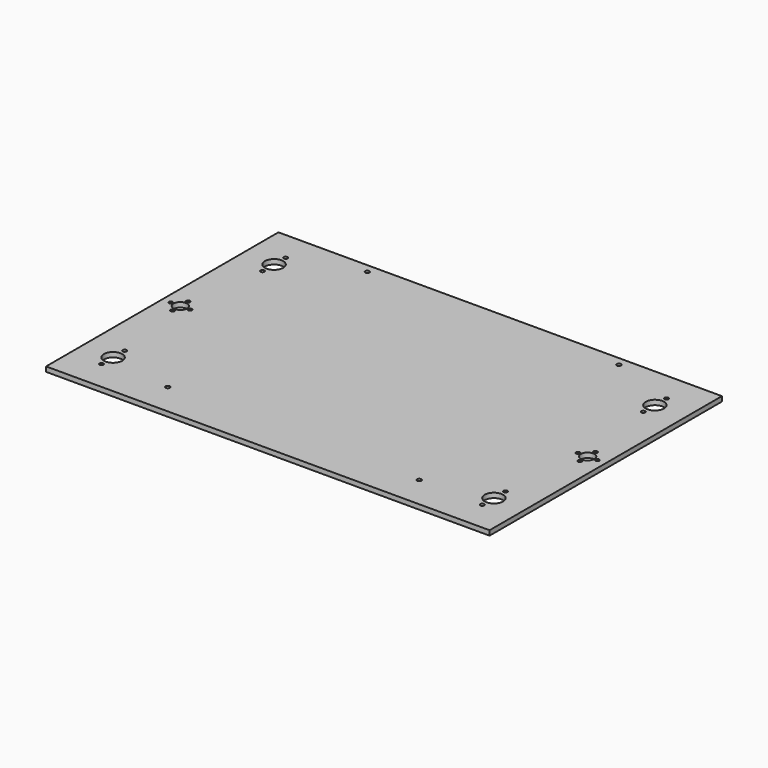
from build123d import *

# Parameters (mm, degrees)
CYLINDER012029001078_R     = 1.75
CYLINDER012029001078_DEPTH = 4
CYLINDER012029001079_R     = 1.75
CYLINDER012029001079_DEPTH = 4
CYLINDER012029001080_R     = 1.75
CYLINDER012029001080_DEPTH = 4
CYLINDER012029001077_R     = 1.75
CYLINDER012029001077_DEPTH = 4
CYLINDER021_R              = 1.6
CYLINDER021_DEPTH          = 10
CYLINDER020_R              = 1.6
CYLINDER020_DEPTH          = 10
CYLINDER019_R              = 1.6
CYLINDER019_DEPTH          = 10
CYLINDER018_R              = 1.6
CYLINDER018_DEPTH          = 10
CYLINDER017_R              = 1.6
CYLINDER017_DEPTH          = 10
CYLINDER016_R              = 1.6
CYLINDER016_DEPTH          = 10
CYLINDER015_R              = 1.6
CYLINDER015_DEPTH          = 10
CYLINDER014_R              = 1.6
CYLINDER014_DEPTH          = 10
CYLINDER013_R              = 5.6
CYLINDER013_DEPTH          = 10
CYLINDER012029001069_R     = 1.6
CYLINDER012029001069_DEPTH = 10
CYLINDER012029001070_R     = 1.6
CYLINDER012029001070_DEPTH = 10
CYLINDER012029001071_R     = 1.6
CYLINDER012029001071_DEPTH = 10
CYLINDER012029001072_R     = 1.6
CYLINDER012029001072_DEPTH = 10
CYLINDER012029001073_R     = 1.6
CYLINDER012029001073_DEPTH = 10
CYLINDER012029001074_R     = 5.6
CYLINDER012029001074_DEPTH = 10
CYLINDER012029001068_R     = 1.6
CYLINDER012029001068_DEPTH = 10
CYLINDER012029001067_R     = 1.6
CYLINDER012029001067_DEPTH = 10
CYLINDER012029001066_R     = 1.6
CYLINDER012029001066_DEPTH = 10
CYLINDER012029001062_R     = 7.6
CYLINDER012029001062_DEPTH = 10
CYLINDER012029001065_R     = 7.6
CYLINDER012029001065_DEPTH = 10
CYLINDER012029001063_R     = 7.6
CYLINDER012029001063_DEPTH = 10
CYLINDER012029001064_R     = 7.6
CYLINDER012029001064_DEPTH = 10
BOX015001052_W             = 368
BOX015001052_H             = 241
BOX015001052_DEPTH         = 4


with BuildPart() as cylinder012029001081:
    # Cylinder012029001078 → Cylinder012029001078 (new body)
    with BuildSketch(Plane(origin=(75.63, 233.64, 0), x_dir=(1, 0, 0), z_dir=(0, 0, 1))):
        Circle(CYLINDER012029001078_R)
    extrude(amount=CYLINDER012029001078_DEPTH)


with BuildPart() as cylinder012029001082:
    # Cylinder012029001079 → Cylinder012029001079 (new body)
    with BuildSketch(Plane(origin=(284.37, 233.64, 0), x_dir=(1, 0, 0), z_dir=(0, 0, 1))):
        Circle(CYLINDER012029001079_R)
    extrude(amount=CYLINDER012029001079_DEPTH)


with BuildPart() as cylinder012029001083:
    # Cylinder012029001080 → Cylinder012029001080 (new body)
    with BuildSketch(Plane(origin=(284.37, 26.63, 0), x_dir=(1, 0, 0), z_dir=(0, 0, 1))):
        Circle(CYLINDER012029001080_R)
    extrude(amount=CYLINDER012029001080_DEPTH)


with BuildPart() as fusion001019007006:
    # Cylinder012029001077 → Cylinder012029001077 (new body)
    with BuildSketch(Plane(origin=(75.63, 26.63, 0), x_dir=(1, 0, 0), z_dir=(0, 0, 1))):
        Circle(CYLINDER012029001077_R)
    extrude(amount=CYLINDER012029001077_DEPTH)

    # Fusion001019007006: union Cylinder012029001081, Cylinder012029001082, Cylinder012029001083
    add(cylinder012029001081.part)
    add(cylinder012029001082.part)
    add(cylinder012029001083.part)


with BuildPart() as cylinder022:
    # Cylinder021 → Cylinder021 (new body)
    with BuildSketch(Plane(origin=(338, 25, -1), x_dir=(1, 0, 0), z_dir=(0, 0, 1))):
        Circle(CYLINDER021_R)
    extrude(amount=CYLINDER021_DEPTH)


with BuildPart() as cylinder021:
    # Cylinder020 → Cylinder020 (new body)
    with BuildSketch(Plane(origin=(338, 49, -1), x_dir=(1, 0, 0), z_dir=(0, 0, 1))):
        Circle(CYLINDER020_R)
    extrude(amount=CYLINDER020_DEPTH)


with BuildPart() as cylinder020:
    # Cylinder019 → Cylinder019 (new body)
    with BuildSketch(Plane(origin=(338, 192, -1), x_dir=(1, 0, 0), z_dir=(0, 0, 1))):
        Circle(CYLINDER019_R)
    extrude(amount=CYLINDER019_DEPTH)


with BuildPart() as cylinder019:
    # Cylinder018 → Cylinder018 (new body)
    with BuildSketch(Plane(origin=(338, 216, -1), x_dir=(1, 0, 0), z_dir=(0, 0, 1))):
        Circle(CYLINDER018_R)
    extrude(amount=CYLINDER018_DEPTH)


with BuildPart() as cylinder018:
    # Cylinder017 → Cylinder017 (new body)
    with BuildSketch(Plane(origin=(349, 128.5, -1), x_dir=(1, 0, 0), z_dir=(0, 0, 1))):
        Circle(CYLINDER017_R)
    extrude(amount=CYLINDER017_DEPTH)


with BuildPart() as cylinder012029001078:
    # Cylinder016 → Cylinder016 (new body)
    with BuildSketch(Plane(origin=(349, 112.5, -1), x_dir=(1, 0, 0), z_dir=(0, 0, 1))):
        Circle(CYLINDER016_R)
    extrude(amount=CYLINDER016_DEPTH)


with BuildPart() as cylinder012029001079:
    # Cylinder015 → Cylinder015 (new body)
    with BuildSketch(Plane(origin=(357, 120.5, -1), x_dir=(1, 0, 0), z_dir=(0, 0, 1))):
        Circle(CYLINDER015_R)
    extrude(amount=CYLINDER015_DEPTH)


with BuildPart() as cylinder012029001077:
    # Cylinder014 → Cylinder014 (new body)
    with BuildSketch(Plane(origin=(341, 120.5, -1), x_dir=(1, 0, 0), z_dir=(0, 0, 1))):
        Circle(CYLINDER014_R)
    extrude(amount=CYLINDER014_DEPTH)


with BuildPart() as cylinder012029001076:
    # Cylinder013 → Cylinder013 (new body)
    with BuildSketch(Plane(origin=(349, 120.5, -1), x_dir=(1, 0, 0), z_dir=(0, 0, 1))):
        Circle(CYLINDER013_R)
    extrude(amount=CYLINDER013_DEPTH)


with BuildPart() as cylinder012029001070:
    # Cylinder012029001069 → Cylinder012029001069 (new body)
    with BuildSketch(Plane(origin=(22, 216, -1), x_dir=(1, 0, 0), z_dir=(0, 0, 1))):
        Circle(CYLINDER012029001069_R)
    extrude(amount=CYLINDER012029001069_DEPTH)


with BuildPart() as cylinder012029001071:
    # Cylinder012029001070 → Cylinder012029001070 (new body)
    with BuildSketch(Plane(origin=(11, 112.5, -1), x_dir=(1, 0, 0), z_dir=(0, 0, 1))):
        Circle(CYLINDER012029001070_R)
    extrude(amount=CYLINDER012029001070_DEPTH)


with BuildPart() as cylinder012029001072:
    # Cylinder012029001071 → Cylinder012029001071 (new body)
    with BuildSketch(Plane(origin=(19, 120.5, -1), x_dir=(1, 0, 0), z_dir=(0, 0, 1))):
        Circle(CYLINDER012029001071_R)
    extrude(amount=CYLINDER012029001071_DEPTH)


with BuildPart() as cylinder012029001073:
    # Cylinder012029001072 → Cylinder012029001072 (new body)
    with BuildSketch(Plane(origin=(11, 128.5, -1), x_dir=(1, 0, 0), z_dir=(0, 0, 1))):
        Circle(CYLINDER012029001072_R)
    extrude(amount=CYLINDER012029001072_DEPTH)


with BuildPart() as cylinder012029001074:
    # Cylinder012029001073 → Cylinder012029001073 (new body)
    with BuildSketch(Plane(origin=(3, 120.5, -1), x_dir=(1, 0, 0), z_dir=(0, 0, 1))):
        Circle(CYLINDER012029001073_R)
    extrude(amount=CYLINDER012029001073_DEPTH)


with BuildPart() as cylinder012029001075:
    # Cylinder012029001074 → Cylinder012029001074 (new body)
    with BuildSketch(Plane(origin=(11, 120.5, -1), x_dir=(1, 0, 0), z_dir=(0, 0, 1))):
        Circle(CYLINDER012029001074_R)
    extrude(amount=CYLINDER012029001074_DEPTH)


with BuildPart() as cylinder012029001069:
    # Cylinder012029001068 → Cylinder012029001068 (new body)
    with BuildSketch(Plane(origin=(22, 192, -1), x_dir=(1, 0, 0), z_dir=(0, 0, 1))):
        Circle(CYLINDER012029001068_R)
    extrude(amount=CYLINDER012029001068_DEPTH)


with BuildPart() as cylinder012029001068:
    # Cylinder012029001067 → Cylinder012029001067 (new body)
    with BuildSketch(Plane(origin=(22, 49, -1), x_dir=(1, 0, 0), z_dir=(0, 0, 1))):
        Circle(CYLINDER012029001067_R)
    extrude(amount=CYLINDER012029001067_DEPTH)


with BuildPart() as cylinder012029001067:
    # Cylinder012029001066 → Cylinder012029001066 (new body)
    with BuildSketch(Plane(origin=(22, 25, -1), x_dir=(1, 0, 0), z_dir=(0, 0, 1))):
        Circle(CYLINDER012029001066_R)
    extrude(amount=CYLINDER012029001066_DEPTH)


with BuildPart() as cylinder012029001066:
    # Cylinder012029001062 → Cylinder012029001062 (new body)
    with BuildSketch(Plane(origin=(338, 204, -1), x_dir=(1, 0, 0), z_dir=(0, 0, 1))):
        Circle(CYLINDER012029001062_R)
    extrude(amount=CYLINDER012029001062_DEPTH)


with BuildPart() as cylinder012029001065:
    # Cylinder012029001065 → Cylinder012029001065 (new body)
    with BuildSketch(Plane(origin=(338, 37, -1), x_dir=(1, 0, 0), z_dir=(0, 0, 1))):
        Circle(CYLINDER012029001065_R)
    extrude(amount=CYLINDER012029001065_DEPTH)


with BuildPart() as cylinder012029001063:
    # Cylinder012029001063 → Cylinder012029001063 (new body)
    with BuildSketch(Plane(origin=(22, 204, -1), x_dir=(1, 0, 0), z_dir=(0, 0, 1))):
        Circle(CYLINDER012029001063_R)
    extrude(amount=CYLINDER012029001063_DEPTH)


with BuildPart() as cylinder012029001064:
    # Cylinder012029001064 → Cylinder012029001064 (new body)
    with BuildSketch(Plane(origin=(22, 37, -1), x_dir=(1, 0, 0), z_dir=(0, 0, 1))):
        Circle(CYLINDER012029001064_R)
    extrude(amount=CYLINDER012029001064_DEPTH)


with BuildPart() as cut003059:
    # Box015001052 → Box015001052 (new body)
    with BuildSketch(Plane(origin=(-4, 0, 0), x_dir=(1, 0, 0), z_dir=(0, 0, 1))):
        with Locations((184, 120.5)):
            Rectangle(BOX015001052_W, BOX015001052_H)
    extrude(amount=BOX015001052_DEPTH)

    # Cut003058: cut Cylinder012029001064
    add(cylinder012029001064.part, mode=Mode.SUBTRACT)

    # Cut003055: cut Cylinder012029001063
    add(cylinder012029001063.part, mode=Mode.SUBTRACT)

    # Cut003057: cut Cylinder012029001065
    add(cylinder012029001065.part, mode=Mode.SUBTRACT)

    # Cut003056: cut Cylinder012029001066
    add(cylinder012029001066.part, mode=Mode.SUBTRACT)

    # Cut004: cut Cylinder012029001067
    add(cylinder012029001067.part, mode=Mode.SUBTRACT)

    # Cut005: cut Cylinder012029001068
    add(cylinder012029001068.part, mode=Mode.SUBTRACT)

    # Cut006: cut Cylinder012029001069
    add(cylinder012029001069.part, mode=Mode.SUBTRACT)

    # Cut007: cut Cylinder012029001075
    add(cylinder012029001075.part, mode=Mode.SUBTRACT)

    # Cut008: cut Cylinder012029001074
    add(cylinder012029001074.part, mode=Mode.SUBTRACT)

    # Cut009: cut Cylinder012029001073
    add(cylinder012029001073.part, mode=Mode.SUBTRACT)

    # Cut010: cut Cylinder012029001072
    add(cylinder012029001072.part, mode=Mode.SUBTRACT)

    # Cut011: cut Cylinder012029001071
    add(cylinder012029001071.part, mode=Mode.SUBTRACT)

    # Cut012: cut Cylinder012029001070
    add(cylinder012029001070.part, mode=Mode.SUBTRACT)

    # Cut013: cut Cylinder012029001076
    add(cylinder012029001076.part, mode=Mode.SUBTRACT)

    # Cut014: cut Cylinder012029001077
    add(cylinder012029001077.part, mode=Mode.SUBTRACT)

    # Cut015: cut Cylinder012029001079
    add(cylinder012029001079.part, mode=Mode.SUBTRACT)

    # Cut016: cut Cylinder012029001078
    add(cylinder012029001078.part, mode=Mode.SUBTRACT)

    # Cut017: cut Cylinder018
    add(cylinder018.part, mode=Mode.SUBTRACT)

    # Cut018: cut Cylinder019
    add(cylinder019.part, mode=Mode.SUBTRACT)

    # Cut019: cut Cylinder020
    add(cylinder020.part, mode=Mode.SUBTRACT)

    # Cut020: cut Cylinder021
    add(cylinder021.part, mode=Mode.SUBTRACT)

    # Cut021: cut Cylinder022
    add(cylinder022.part, mode=Mode.SUBTRACT)

    # Cut003059: cut Fusion001019007006
    add(fusion001019007006.part, mode=Mode.SUBTRACT)


solid = cut003059.part
